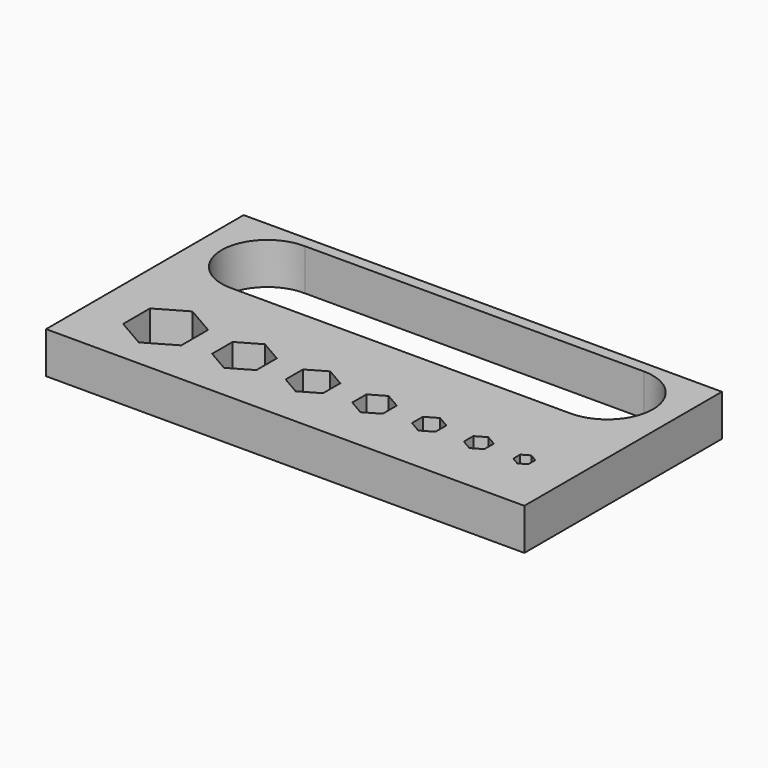
from build123d import *

# Parameters (mm, degrees)
F0_W     = 34.57
F0_H     = 9
F0_H_2   = 8.8497422612
F1_DEPTH = 3
F3_D     = 6.6
F5_DEPTH = 25


with BuildPart() as f1:
    # F0 (on Top) → F1 (new body)
    with BuildSketch(Plane.XY):
        with Locations((-2.915, 8.9248711306)):
            Rectangle(F0_W, F0_H)
        with Locations((-2.915, 0)):
            Rectangle(F0_W, F0_H_2)
        Polygon((-15.1, 2.4248711306), (-13, 1.2124355653), (-13, -1.2124355653), (-15.1, -2.4248711306), (-17.2, -1.2124355653), (-17.2, 1.2124355653), align=None, mode=Mode.SUBTRACT)
        Polygon((-9.4, 1.8475208614), (-7.8, 0.9237604307), (-7.8, -0.9237604307), (-9.4, -1.8475208614), (-11, -0.9237604307), (-11, 0.9237604307), align=None, mode=Mode.SUBTRACT)
        Polygon((-4.45, 1.5588457268), (-3.1, 0.7794228634), (-3.1, -0.7794228634), (-4.45, -1.5588457268), (-5.8, -0.7794228634), (-5.8, 0.7794228634), align=None, mode=Mode.SUBTRACT)
        Polygon((0, 1.2701705922), (1.1, 0.6350852961), (1.1, -0.6350852961), (0, -1.2701705922), (-1.1, -0.6350852961), (-1.1, 0.6350852961), align=None, mode=Mode.SUBTRACT)
        Polygon((3.95, 0.9814954576), (4.8, 0.4907477288), (4.8, -0.4907477288), (3.95, -0.9814954576), (3.1, -0.4907477288), (3.1, 0.4907477288), align=None, mode=Mode.SUBTRACT)
        Polygon((7.54, 0.8544783984), (8.28, 0.4272391992), (8.28, -0.4272391992), (7.54, -0.8544783984), (6.8, -0.4272391992), (6.8, 0.4272391992), align=None, mode=Mode.SUBTRACT)
        Polygon((10.825, 0.6293117934), (11.37, 0.3146558967), (11.37, -0.3146558967), (10.825, -0.6293117934), (10.28, -0.3146558967), (10.28, 0.3146558967), align=None, mode=Mode.SUBTRACT)
    extrude(amount=F1_DEPTH)

    # F3 (through all)
    with Locations(Plane.XY.offset(3)):
        with Locations((-15.2, 9.3164853752), (9.37, 9.3164853752)):
            Hole(F3_D / 2)

    # F4 (on face) → F5 (cut)
    with BuildSketch(Plane.XY.offset(3)):
        with BuildLine():
            Line((9.3698995221, 12.6164853736), (-15.1298372011, 12.6157394093))
            ThreePointArc((-15.1298372011, 12.6157394093), (-12.8418717978, 11.6249981826), (-11.9, 9.3164853752))
            ThreePointArc((-11.9, 9.3164853752), (-12.866547622, 6.9830329973), (-15.1999999998, 6.0164853752))
            Line((-15.1999999998, 6.0164853752), (9.3698995221, 6.0164853767))
            ThreePointArc((9.3698995221, 6.0164853767), (6.07, 9.3164853752), (9.3698995221, 12.6164853736))
        make_face()
    extrude(amount=-F5_DEPTH, mode=Mode.SUBTRACT)


solid = f1.part
